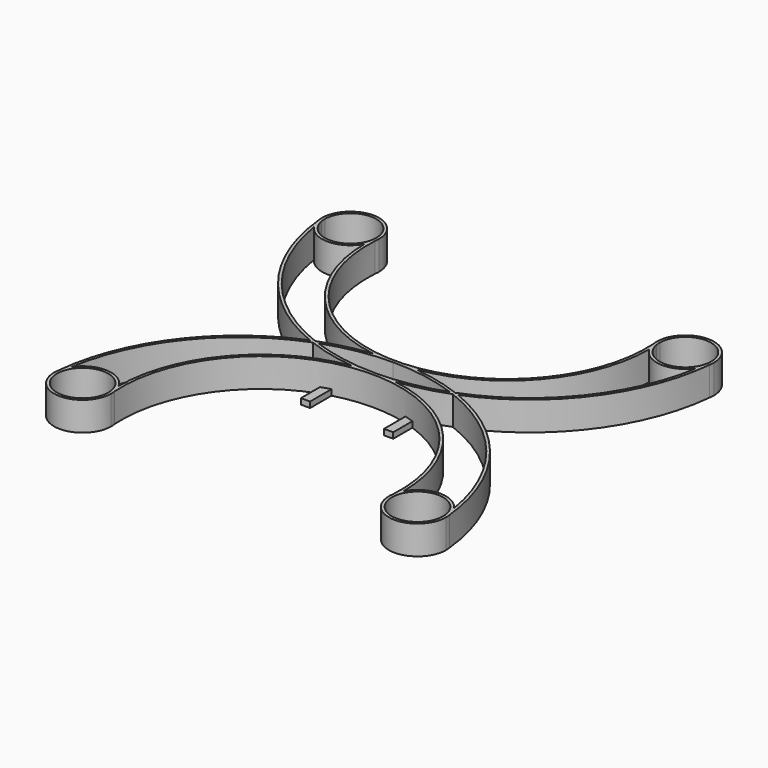
from build123d import *

# Parameters (mm, degrees)
F0_R     = 4.45
F1_DEPTH = 5
F2_W     = 1.6
F2_H     = 16
F3_DEPTH = 1


with BuildPart() as f1:
    # F0 (on Top) → F1 (new body)
    with BuildSketch(Plane.XY):
        with BuildLine():
            ThreePointArc((-12.1246449961, 0.267831512), (-26.0947437129, 10.4656664971), (-33.1275013965, 26.2675592921))
            ThreePointArc((-33.1275013965, 26.2675592921), (-28.7977769223, 24.0541324495), (-24.6632048151, 26.6136413673))
            ThreePointArc((-24.6632048151, 26.6136413673), (-18.7098814469, 10.5941393251), (-3.7729248553, 2.2902948789))
            ThreePointArc((-3.7729248553, 2.2902948789), (-1.8893740867, 2.4475332935), (5.87e-08, 2.5))
            ThreePointArc((5.87e-08, 2.5), (-17.6234951757, 10.132214329), (-24.1138632932, 28.2074294465))
            ThreePointArc((-24.1138632932, 28.2074294465), (-24.0851920036, 28.6039774344), (-24.05, 29))
            ThreePointArc((-24.05, 29), (-29, 33.95), (-33.95, 29))
            ThreePointArc((-33.95, 29), (-33.914900783, 28.5686280089), (-33.8743207345, 28.1377370604))
            ThreePointArc((-33.8743207345, 28.1377370604), (-27.2521637698, 11.1393838049), (-12.8053265827, 0))
            ThreePointArc((-12.8053265827, 0), (-12.4657051208, 0.1357439041), (-12.1246449961, 0.267831512))
        make_face()
        with BuildLine():
            ThreePointArc((-24.6112307284, 28.2643341244), (-28.9708151416, 24.5500957039), (-33.3787423598, 28.206832082))
            ThreePointArc((-33.3787423598, 28.206832082), (-33.4329586461, 28.6109272024), (-33.4499624194, 29.0182883979))
            ThreePointArc((-33.4499624194, 29.0182883979), (-29.0025886323, 33.4499992471), (-24.5500618695, 29.0234656056))
            ThreePointArc((-24.5500618695, 29.0234656056), (-24.5500154674, 29.0117328436), (-24.55, 29))
            ThreePointArc((-24.55, 29), (-24.5653341017, 28.6308951766), (-24.6112307284, 28.2643341244))
        make_face(mode=Mode.SUBTRACT)
        with BuildLine():
            ThreePointArc((-11.4096937343, 0), (-11.7679313517, 0.131881704), (-12.1246449961, 0.267831512))
            ThreePointArc((-12.1246449961, 0.267831512), (-12.4657051208, 0.1357439041), (-12.8053265827, 0))
            ThreePointArc((-12.8053265827, 0), (-12.4657051208, -0.1357439041), (-12.1246449961, -0.267831512))
            ThreePointArc((-12.1246449961, -0.267831512), (-11.7679313517, -0.131881704), (-11.4096937343, 0))
        make_face()
        with BuildLine():
            ThreePointArc((5.87e-08, 2.5), (-1.8893740867, 2.4475332935), (-3.7729248553, 2.2902948789))
            ThreePointArc((-3.7729248553, 2.2902948789), (-1.8920380566, 2.0726808069), (1.392e-07, 2))
            ThreePointArc((1.392e-07, 2), (1.8920381954, 2.0726808176), (3.7729248553, 2.2902948789))
            ThreePointArc((3.7729248553, 2.2902948789), (1.8893741454, 2.4475332902), (5.87e-08, 2.5))
        make_face()
        with BuildLine():
            ThreePointArc((-12.1246449961, -0.267831512), (-12.4657051208, -0.1357439041), (-12.8053265827, 0))
            ThreePointArc((-12.8053265827, 0), (-27.2521637698, -11.1393838049), (-33.8743207345, -28.1377370604))
            ThreePointArc((-33.8743207345, -28.1377370604), (-33.914900783, -28.5686280089), (-33.95, -29))
            ThreePointArc((-33.95, -29), (-29, -33.95), (-24.05, -29))
            ThreePointArc((-24.05, -29), (-24.0851920036, -28.6039774344), (-24.1138632932, -28.2074294465))
            ThreePointArc((-24.1138632932, -28.2074294465), (-17.6234951757, -10.132214329), (5.87e-08, -2.5))
            ThreePointArc((5.87e-08, -2.5), (-1.8893740867, -2.4475332935), (-3.7729248553, -2.2902948789))
            ThreePointArc((-3.7729248553, -2.2902948789), (-18.7098814469, -10.5941393251), (-24.6632048151, -26.6136413673))
            ThreePointArc((-24.6632048151, -26.6136413673), (-28.7977769223, -24.0541324495), (-33.1275013965, -26.2675592921))
            ThreePointArc((-33.1275013965, -26.2675592921), (-26.0947437129, -10.4656664971), (-12.1246449961, -0.267831512))
        make_face()
        with Locations((-29, -29)):
            Circle(F0_R, mode=Mode.SUBTRACT)
        with BuildLine():
            ThreePointArc((24.1138632932, 28.2074294465), (17.6234952159, 10.1322143718), (5.87e-08, 2.5))
            ThreePointArc((5.87e-08, 2.5), (1.8893741454, 2.4475332902), (3.7729248553, 2.2902948789))
            ThreePointArc((3.7729248553, 2.2902948789), (18.7098814469, 10.5941393251), (24.6632048151, 26.6136413673))
            ThreePointArc((24.6632048151, 26.6136413673), (28.7977769223, 24.0541324495), (33.1275013965, 26.2675592921))
            ThreePointArc((33.1275013965, 26.2675592921), (26.0947437129, 10.4656664971), (12.1246449961, 0.267831512))
            ThreePointArc((12.1246449961, 0.267831512), (12.4657051208, 0.1357439041), (12.8053265827, 0))
            ThreePointArc((12.8053265827, 0), (27.2521637698, 11.1393838049), (33.8743207345, 28.1377370604))
            ThreePointArc((33.8743207345, 28.1377370604), (33.914900783, 28.5686280089), (33.95, 29))
            ThreePointArc((33.95, 29), (29, 33.95), (24.05, 29))
            ThreePointArc((24.05, 29), (24.0851920036, 28.6039774344), (24.1138632932, 28.2074294465))
        make_face()
        with BuildLine():
            ThreePointArc((33.3787423598, 28.206832082), (28.9708151416, 24.5500957039), (24.6112307284, 28.2643341244))
            ThreePointArc((24.6112307284, 28.2643341244), (24.5643763362, 28.6425888733), (24.5500618695, 29.0234656056))
            ThreePointArc((24.5500618695, 29.0234656056), (29.0025886323, 33.4499992471), (33.4499624194, 29.0182883979))
            ThreePointArc((33.4499624194, 29.0182883979), (33.4499906049, 29.0091442183), (33.45, 29))
            ThreePointArc((33.45, 29), (33.4321497888, 28.6018188235), (33.3787423598, 28.206832082))
        make_face(mode=Mode.SUBTRACT)
        with BuildLine():
            ThreePointArc((3.7729248553, -2.2902948789), (1.8920381954, -2.0726808176), (1.392e-07, -2))
            ThreePointArc((1.392e-07, -2), (-1.8920380566, -2.0726808069), (-3.7729248553, -2.2902948789))
            ThreePointArc((-3.7729248553, -2.2902948789), (-1.8893740867, -2.4475332935), (5.87e-08, -2.5))
            ThreePointArc((5.87e-08, -2.5), (1.8893741454, -2.4475332902), (3.7729248553, -2.2902948789))
        make_face()
        with BuildLine():
            ThreePointArc((-33.95, 29), (-33.9310438872, 28.5672111577), (-33.8743207345, 28.1377370604))
            ThreePointArc((-33.8743207345, 28.1377370604), (-33.914900783, 28.5686280089), (-33.95, 29))
        make_face()
        with BuildLine():
            ThreePointArc((-33.95, -29), (-33.914900783, -28.5686280089), (-33.8743207345, -28.1377370604))
            ThreePointArc((-33.8743207345, -28.1377370604), (-33.9310438872, -28.5672111577), (-33.95, -29))
        make_face()
        with BuildLine():
            ThreePointArc((12.1246449961, 0.267831512), (11.7679313517, 0.131881704), (11.4096937343, 0))
            ThreePointArc((11.4096937343, 0), (11.7679313517, -0.131881704), (12.1246449961, -0.267831512))
            ThreePointArc((12.1246449961, -0.267831512), (12.4657051208, -0.1357439041), (12.8053265827, 0))
            ThreePointArc((12.8053265827, 0), (12.4657051208, 0.1357439041), (12.1246449961, 0.267831512))
        make_face()
        with BuildLine():
            ThreePointArc((-24.05, 29), (-24.0851920036, 28.6039774344), (-24.1138632932, 28.2074294465))
            ThreePointArc((-24.1138632932, 28.2074294465), (-24.0659916549, 28.6024303198), (-24.05, 29))
        make_face()
        with BuildLine():
            ThreePointArc((24.05, 29), (24.0659916549, 28.6024303198), (24.1138632932, 28.2074294465))
            ThreePointArc((24.1138632932, 28.2074294465), (24.0851920036, 28.6039774344), (24.05, 29))
        make_face()
        with BuildLine():
            ThreePointArc((24.6632048151, -26.6136413673), (18.7098814469, -10.5941393251), (3.7729248553, -2.2902948789))
            ThreePointArc((3.7729248553, -2.2902948789), (1.8893741454, -2.4475332902), (5.87e-08, -2.5))
            ThreePointArc((5.87e-08, -2.5), (17.6234952159, -10.1322143718), (24.1138632932, -28.2074294465))
            ThreePointArc((24.1138632932, -28.2074294465), (24.0851920036, -28.6039774344), (24.05, -29))
            ThreePointArc((24.05, -29), (29, -33.95), (33.95, -29))
            ThreePointArc((33.95, -29), (33.914900783, -28.5686280089), (33.8743207345, -28.1377370604))
            ThreePointArc((33.8743207345, -28.1377370604), (27.2521637698, -11.1393838049), (12.8053265827, 0))
            ThreePointArc((12.8053265827, 0), (12.4657051208, -0.1357439041), (12.1246449961, -0.267831512))
            ThreePointArc((12.1246449961, -0.267831512), (26.0947437129, -10.4656664971), (33.1275013965, -26.2675592921))
            ThreePointArc((33.1275013965, -26.2675592921), (28.7977769223, -24.0541324495), (24.6632048151, -26.6136413673))
        make_face()
        with Locations((29, -29)):
            Circle(F0_R, mode=Mode.SUBTRACT)
        with BuildLine():
            ThreePointArc((-24.1138632932, -28.2074294465), (-24.0851920036, -28.6039774344), (-24.05, -29))
            ThreePointArc((-24.05, -29), (-24.0659916549, -28.6024303198), (-24.1138632932, -28.2074294465))
        make_face()
        with BuildLine():
            ThreePointArc((33.8743207345, 28.1377370604), (33.9310438872, 28.5672111577), (33.95, 29))
            ThreePointArc((33.95, 29), (33.914900783, 28.5686280089), (33.8743207345, 28.1377370604))
        make_face()
        with BuildLine():
            ThreePointArc((24.05, -29), (24.0851920036, -28.6039774344), (24.1138632932, -28.2074294465))
            ThreePointArc((24.1138632932, -28.2074294465), (24.0659916549, -28.6024303198), (24.05, -29))
        make_face()
        with BuildLine():
            ThreePointArc((33.95, -29), (33.9310438872, -28.5672111577), (33.8743207345, -28.1377370604))
            ThreePointArc((33.8743207345, -28.1377370604), (33.914900783, -28.5686280089), (33.95, -29))
        make_face()
        with BuildLine():
            ThreePointArc((-3.7729248553, 2.2902948789), (-8.0128503863, 1.5436201739), (-12.1246449961, 0.267831512))
            ThreePointArc((-12.1246449961, 0.267831512), (-11.7679313517, 0.131881704), (-11.4096937343, 0))
            ThreePointArc((-11.4096937343, 0), (-5.7918284664, 1.4962171068), (1.392e-07, 2))
            ThreePointArc((1.392e-07, 2), (-1.8920380566, 2.0726808069), (-3.7729248553, 2.2902948789))
        make_face()
        with BuildLine():
            ThreePointArc((1.392e-07, -2), (-5.7918284664, -1.4962171068), (-11.4096937343, 0))
            ThreePointArc((-11.4096937343, 0), (-11.7679313517, -0.131881704), (-12.1246449961, -0.267831512))
            ThreePointArc((-12.1246449961, -0.267831512), (-8.0128503863, -1.5436201739), (-3.7729248553, -2.2902948789))
            ThreePointArc((-3.7729248553, -2.2902948789), (-1.8920380566, -2.0726808069), (1.392e-07, -2))
        make_face()
        with BuildLine():
            ThreePointArc((11.4096937343, 0), (5.7918286035, -1.4962170827), (1.392e-07, -2))
            ThreePointArc((1.392e-07, -2), (1.8920381954, -2.0726808176), (3.7729248553, -2.2902948789))
            ThreePointArc((3.7729248553, -2.2902948789), (8.0128503863, -1.5436201739), (12.1246449961, -0.267831512))
            ThreePointArc((12.1246449961, -0.267831512), (11.7679313517, -0.131881704), (11.4096937343, 0))
        make_face()
        with BuildLine():
            ThreePointArc((3.7729248553, 2.2902948789), (1.8920381954, 2.0726808176), (1.392e-07, 2))
            ThreePointArc((1.392e-07, 2), (5.7918286035, 1.4962170827), (11.4096937343, 0))
            ThreePointArc((11.4096937343, 0), (11.7679313517, 0.131881704), (12.1246449961, 0.267831512))
            ThreePointArc((12.1246449961, 0.267831512), (8.0128503863, 1.5436201739), (3.7729248553, 2.2902948789))
        make_face()
    extrude(amount=F1_DEPTH)

    # F2 (on Top) → F3 (join)
    with BuildSketch(Plane.XY):
        with Locations((7.2, 0)):
            Rectangle(F2_W, F2_H)
        with Locations((-7.2, 0)):
            Rectangle(F2_W, F2_H)
    extrude(amount=F3_DEPTH)


solid = f1.part
